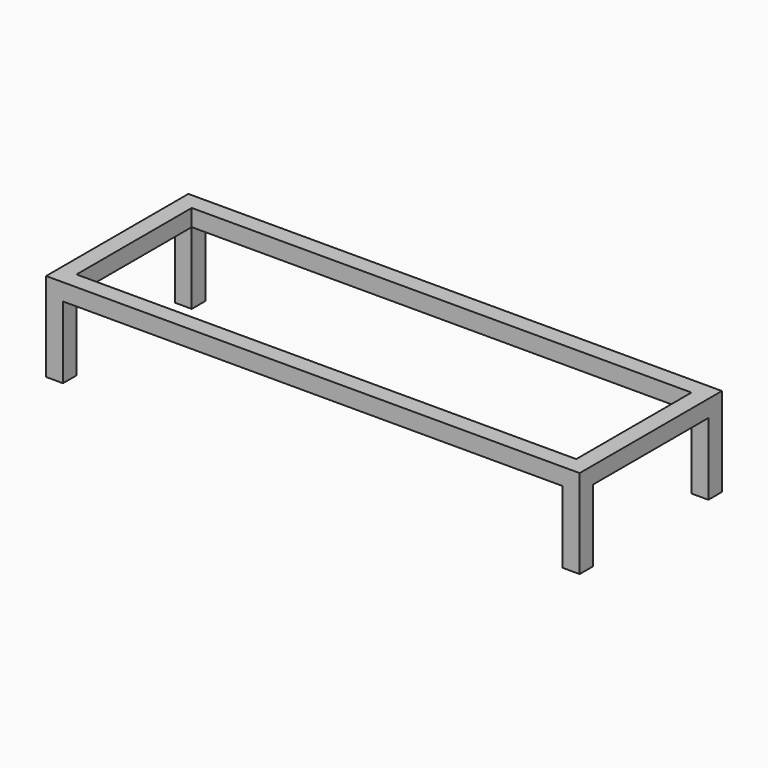
from build123d import *

# Parameters (mm, degrees)
F1_DEPTH = 38
F2_W     = 324
F2_H     = 38
F3_DEPTH = 38
F4_W     = 38
F4_H     = 38
F5_DEPTH = 324
F7_DEPTH = 38
F8_T     = -2.5


with BuildPart() as f1:
    # F0 (on Front) → F1 (new body)
    with BuildSketch(Plane.XZ):
        Polygon((0, 200), (0, 0), (38, 0), (38, 162), (1162, 162), (1162, 0), (1200, 0), (1200, 200), (1162, 200), (38, 200), align=None)
    extrude(amount=F1_DEPTH)

    # F2 (on face) → F3 (join)
    with BuildSketch(Plane(origin=(0, 0, 0), x_dir=(0, -1, 0), z_dir=(-1, 0, 0))):
        with Locations((-162, 181)):
            Rectangle(F2_W, F2_H)
    extrude(amount=-F3_DEPTH)

    # F4 (on face) → F5 (join)
    with BuildSketch(Plane(origin=(0, 0, 0), x_dir=(-1, 0, 0), z_dir=(0, 1, 0))):
        with Locations((-1181, 181)):
            Rectangle(F4_W, F4_H)
    extrude(amount=F5_DEPTH)

    # F6 (on face) → F7 (join)
    with BuildSketch(Plane(origin=(0, 324, 0), x_dir=(-1, 0, 0), z_dir=(0, 1, 0))):
        Polygon((-1162, 200), (-1200, 200), (-1200, 162), (-1200, 0), (-1162, 0), (-1162, 162), (-38, 162), (-38, 0), (0, 0), (0, 162), (0, 200), (-38, 200), align=None)
    extrude(amount=F7_DEPTH)

    # F8
    f8_openings = [f1.faces().sort_by_distance(p)[0] for p in [
        (19, 343, 0),
        (19, -19, 0),
        (1181, -19, 0),
        (1181, 343, 0),
    ]]
    offset(amount=F8_T, openings=f8_openings, kind=Kind.INTERSECTION)


solid = f1.part
